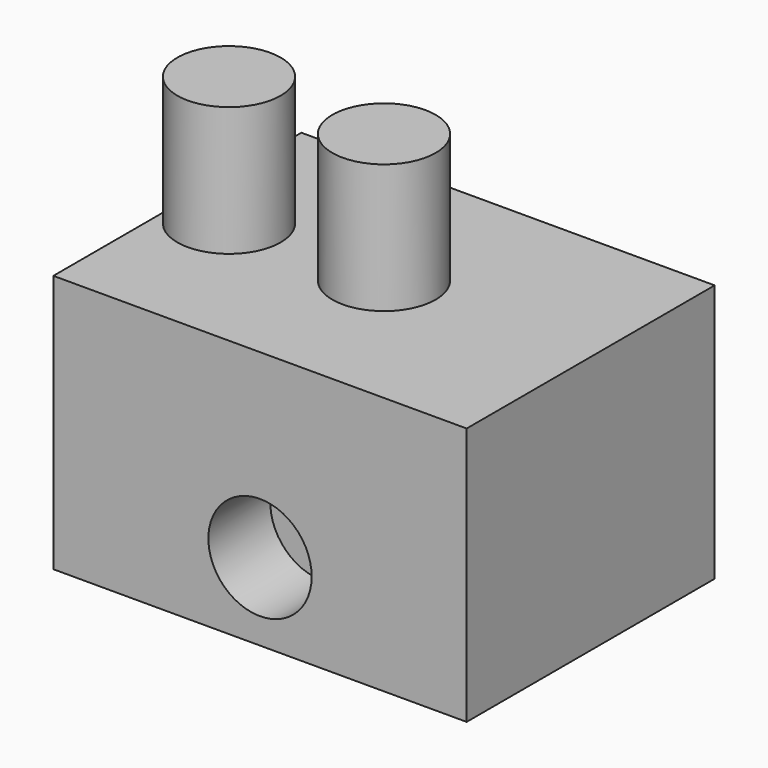
from build123d import *

# Parameters (mm, degrees)
F0_W     = 80
F0_H     = 60
F1_DEPTH = 50
F3_DEPTH = 25
F4_R     = 10
F5_DEPTH = 25
F6_R     = 10
F7_DEPTH = 15


with BuildPart() as f1:
    # F0 (on Top) → F1 (new body)
    with BuildSketch(Plane.XY):
        Rectangle(F0_W, F0_H)
    extrude(amount=F1_DEPTH)

    # F2 (on face) → F3 (join)
    with BuildSketch(Plane.XY.offset(50)):
        with BuildLine():
            ThreePointArc((-40, 0), (-30, -10), (-20, 0))
            ThreePointArc((-20, 0), (-30, 10), (-40, 0))
        make_face()
    extrude(amount=F3_DEPTH)

    # F4 (on face) → F5 (join)
    with BuildSketch(Plane.XY.offset(50)):
        Circle(F4_R)
    extrude(amount=F5_DEPTH)

    # F6 (on face) → F7 (cut)
    with BuildSketch(Plane.XZ.offset(30)):
        with Locations((0, 15)):
            Circle(F6_R)
    extrude(amount=-F7_DEPTH, mode=Mode.SUBTRACT)


solid = f1.part
